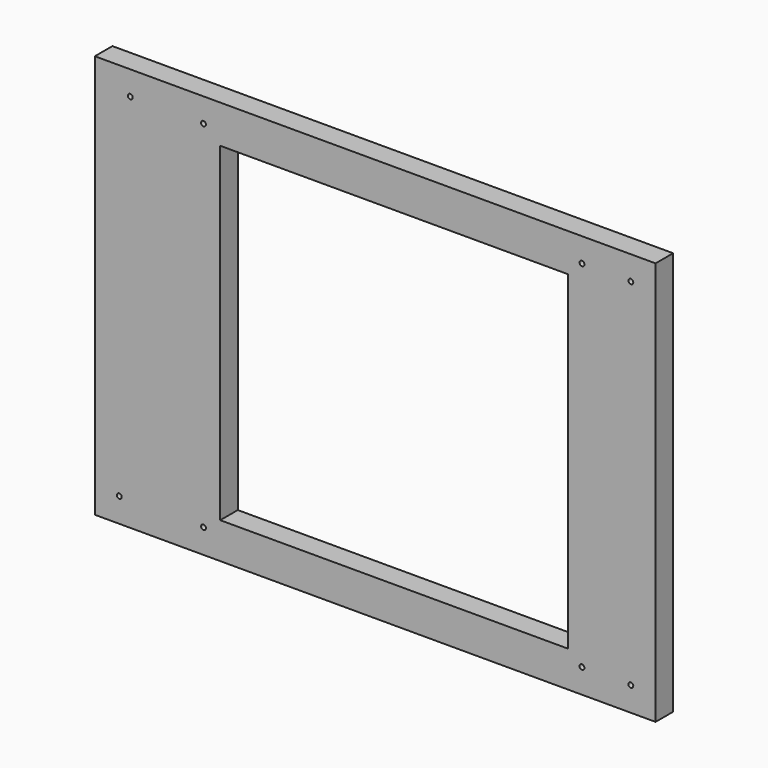
from build123d import *

# Parameters (mm, degrees)
F0_W     = 459.276661
F0_H     = 330.659747
F0_R     = 2
F0_W_2   = 284.989998
F0_H_2   = 270
F1_DEPTH = 18


with BuildPart() as f1:
    # F0 (on Front) → F1 (new body)
    with BuildSketch(Plane.XZ):
        with Locations((-26.848919, 14.341057)):
            Rectangle(F0_W, F0_H)
        with Locations((-236.480528, -131)):
            Circle(F0_R, mode=Mode.SUBTRACT)
        with Locations((-167.480528, -131)):
            Circle(F0_R, mode=Mode.SUBTRACT)
        with Locations((142.519472, -131)):
            Circle(F0_R, mode=Mode.SUBTRACT)
        with Locations((182.519472, -131)):
            Circle(F0_R, mode=Mode.SUBTRACT)
        with Locations((-11.298247, 13.510624)):
            Rectangle(F0_W_2, F0_H_2, mode=Mode.SUBTRACT)
        with Locations((-227.480528, 160)):
            Circle(F0_R, mode=Mode.SUBTRACT)
        with Locations((-167.480528, 160)):
            Circle(F0_R, mode=Mode.SUBTRACT)
        with Locations((142.519472, 160)):
            Circle(F0_R, mode=Mode.SUBTRACT)
        with Locations((182.519472, 160)):
            Circle(F0_R, mode=Mode.SUBTRACT)
    extrude(amount=F1_DEPTH)


solid = f1.part
